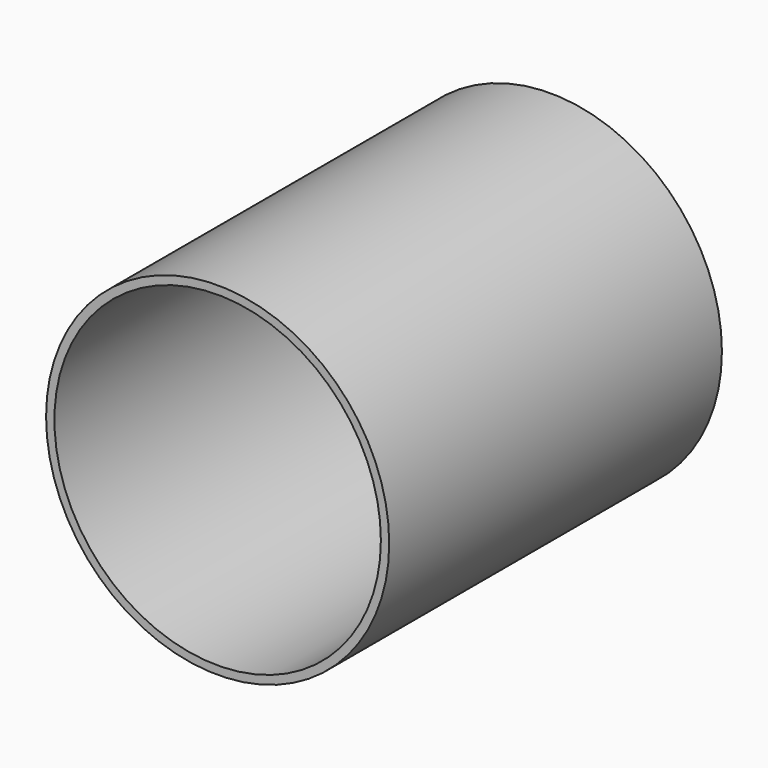
from build123d import *

# Parameters (mm, degrees)
F0_R     = 52.3875
F1_DEPTH = 3.175
F2_R     = 52.3875
F2_R_2   = 49.845362
F3_DEPTH = 123.825


with BuildPart() as f1:
    # F0 (on Front) → F1 (new body)
    with BuildSketch(Plane.XZ):
        Circle(F0_R)
    extrude(amount=F1_DEPTH)

    # F2 (on face) → F3 (join)
    with BuildSketch(Plane.XZ.offset(3.175)):
        Circle(F2_R)
        Circle(F2_R_2, mode=Mode.SUBTRACT)
    extrude(amount=F3_DEPTH)


solid = f1.part
